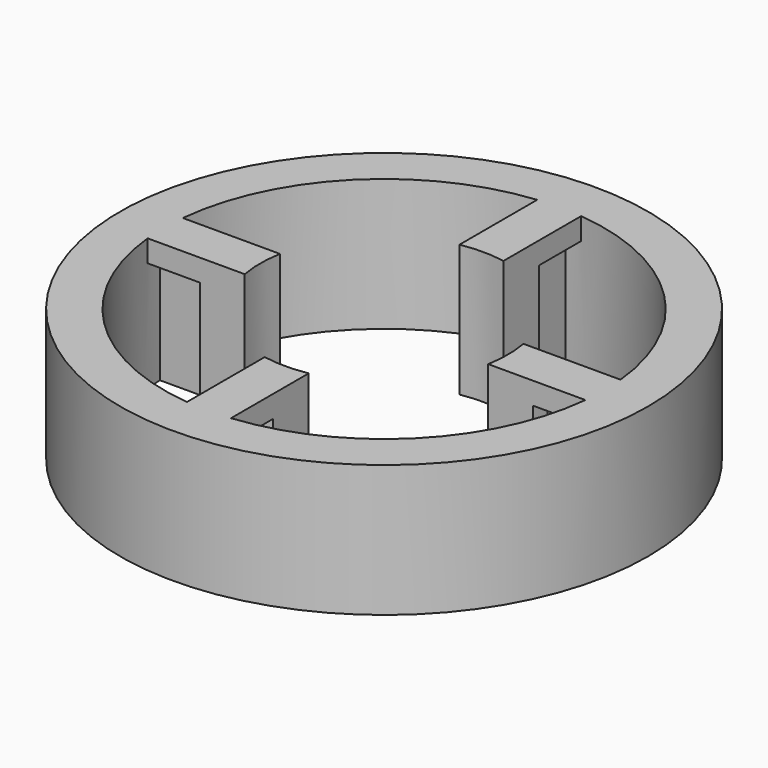
from build123d import *

# Parameters (mm, degrees)
BOX011_W                    = 20
BOX011_H                    = 2
BOX011_DEPTH                = 80
BOX012_W                    = 20
BOX012_H                    = 2
BOX012_DEPTH                = 80
COMPOUND005_PLACEMENT_ANGLE = 90
TUBE013_R                   = 10
TUBE013_R_2                 = 3.25
TUBE013_DEPTH               = 80
TUBE008_R                   = 7.625
TUBE008_R_2                 = 5.625
TUBE008_DEPTH               = 5
TUBE007_R                   = 7.625
TUBE007_R_2                 = 5.625
TUBE007_DEPTH               = 5
BOX005_W                    = 20
BOX005_H                    = 0.5
BOX005_DEPTH                = 40
BOX006_W                    = 20
BOX006_H                    = 0.5
BOX006_DEPTH                = 40
COMPOUND002_PLACEMENT_ANGLE = 90
TUBE006_R                   = 10
TUBE006_R_2                 = 3.25
TUBE006_DEPTH               = 40
CYLINDER002_R               = 5.625
CYLINDER002_DEPTH           = 100
CYLINDER001_R               = 12
CYLINDER001_DEPTH           = 6


with BuildPart() as cube011:
    # Box011 → Box011 (new body)
    with BuildSketch(Plane(origin=(-10, -1, -20), x_dir=(1, 0, 0), z_dir=(0, 0, 1))):
        with Locations((10, 1)):
            Rectangle(BOX011_W, BOX011_H)
    extrude(amount=BOX011_DEPTH)


with BuildPart() as fusion008:
    # Box012 → Box012 (new body)
    with BuildSketch(Plane(origin=(-10, -1, -20), x_dir=(1, 0, 0), z_dir=(0, 0, 1))):
        with Locations((10, 1)):
            Rectangle(BOX012_W, BOX012_H)
    extrude(amount=BOX012_DEPTH)


with BuildPart() as fusion008_1:
    # Compound005 placement: moved
    add(fusion008.part.rotate(Axis((0, 0, 0), (0, 0, 1)), COMPOUND005_PLACEMENT_ANGLE))

    # Fusion008: union Cube011
    add(cube011.part)


with BuildPart() as cut018:
    # Tube013 → Tube013 (new body)
    with BuildSketch(Plane.XY.offset(-20)):
        Circle(TUBE013_R)
        Circle(TUBE013_R_2, mode=Mode.SUBTRACT)
    extrude(amount=TUBE013_DEPTH)

    # Cut018: cut Fusion008
    add(fusion008_1.part, mode=Mode.SUBTRACT)


with BuildPart() as mountringgroove005:
    # Tube008 → Tube008 (new body)
    with BuildSketch(Plane.XY.offset(35)):
        Circle(TUBE008_R)
        Circle(TUBE008_R_2, mode=Mode.SUBTRACT)
    extrude(amount=TUBE008_DEPTH)


with BuildPart() as mountringgroove004:
    # Tube007 → Tube007 (new body)
    with BuildSketch(Plane.XY):
        Circle(TUBE007_R)
        Circle(TUBE007_R_2, mode=Mode.SUBTRACT)
    extrude(amount=TUBE007_DEPTH)


with BuildPart() as cube005:
    # Box005 → Box005 (new body)
    with BuildSketch(Plane(origin=(-10, -0.25, 0), x_dir=(1, 0, 0), z_dir=(0, 0, 1))):
        with Locations((10, 0.25)):
            Rectangle(BOX005_W, BOX005_H)
    extrude(amount=BOX005_DEPTH)


with BuildPart() as fusion002:
    # Box006 → Box006 (new body)
    with BuildSketch(Plane(origin=(-10, -0.25, 0), x_dir=(1, 0, 0), z_dir=(0, 0, 1))):
        with Locations((10, 0.25)):
            Rectangle(BOX006_W, BOX006_H)
    extrude(amount=BOX006_DEPTH)


with BuildPart() as fusion002_1:
    # Compound002 placement: moved
    add(fusion002.part.rotate(Axis((0, 0, 0), (0, 0, 1)), COMPOUND002_PLACEMENT_ANGLE))

    # Fusion002: union Cube005
    add(cube005.part)


with BuildPart() as cut011:
    # Tube006 → Tube006 (new body)
    with BuildSketch(Plane.XY):
        Circle(TUBE006_R)
        Circle(TUBE006_R_2, mode=Mode.SUBTRACT)
    extrude(amount=TUBE006_DEPTH)

    # Cut009: cut Fusion002
    add(fusion002_1.part, mode=Mode.SUBTRACT)

    # Cut010: cut MountringGroove004
    add(mountringgroove004.part, mode=Mode.SUBTRACT)

    # Cut011: cut MountringGroove005
    add(mountringgroove005.part, mode=Mode.SUBTRACT)


with BuildPart() as cut011_1:
    # Cut011 placement: moved
    add(cut011.part.moved(Location((0, 0, 7))))


with BuildPart() as cylinder002:
    # Cylinder002 → Cylinder002 (new body)
    with BuildSketch(Plane.XY):
        Circle(CYLINDER002_R)
    extrude(amount=CYLINDER002_DEPTH)


with BuildPart() as topring:
    # Cylinder001 → Cylinder001 (new body)
    with BuildSketch(Plane.XY.offset(42)):
        Circle(CYLINDER001_R)
    extrude(amount=CYLINDER001_DEPTH)

    # Cut008: cut Cylinder002
    add(cylinder002.part, mode=Mode.SUBTRACT)

    # Cut012: cut Cut011
    add(cut011_1.part, mode=Mode.SUBTRACT)


with BuildPart() as topring_1:
    # Cut012 placement: moved
    add(topring.part.moved(Location((0, 0, 4))))

    # Cut019: cut Cut018
    add(cut018.part, mode=Mode.SUBTRACT)


solid = topring_1.part
